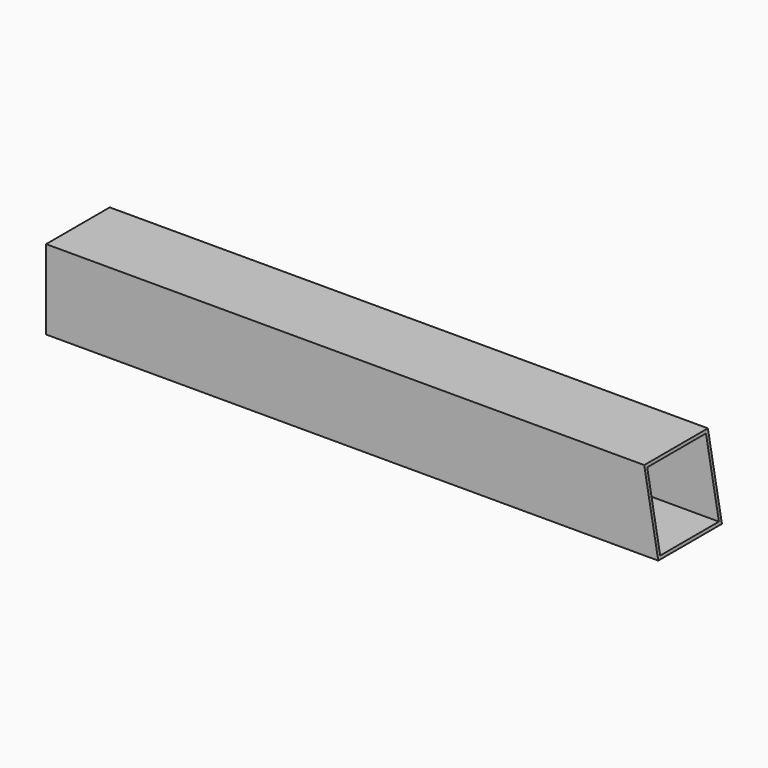
from build123d import *

# Parameters (mm, degrees)
F0_W     = 65
F0_H     = 65
F1_DEPTH = 500
F2_W     = 60
F2_H     = 60
F3_DEPTH = 500
F5_DEPTH = 70


with BuildPart() as f1:
    # F0 (on Right) → F1 (new body)
    with BuildSketch(Plane.YZ):
        with Locations((25.129514, -17.626217)):
            Rectangle(F0_W, F0_H)
    extrude(amount=F1_DEPTH)

    # F2 (on face) → F3 (cut)
    with BuildSketch(Plane.YZ.offset(500)):
        with Locations((25.129514, -17.626217)):
            Rectangle(F2_W, F2_H)
    extrude(amount=-F3_DEPTH, mode=Mode.SUBTRACT)

    # F4 (on face) → F5 (cut)
    with BuildSketch(Plane.XZ.offset(7.370486)):
        Polygon((488.538746, 14.873783), (500, -50.126217), (500, 14.873783), align=None)
    extrude(amount=-F5_DEPTH, mode=Mode.SUBTRACT)


solid = f1.part
